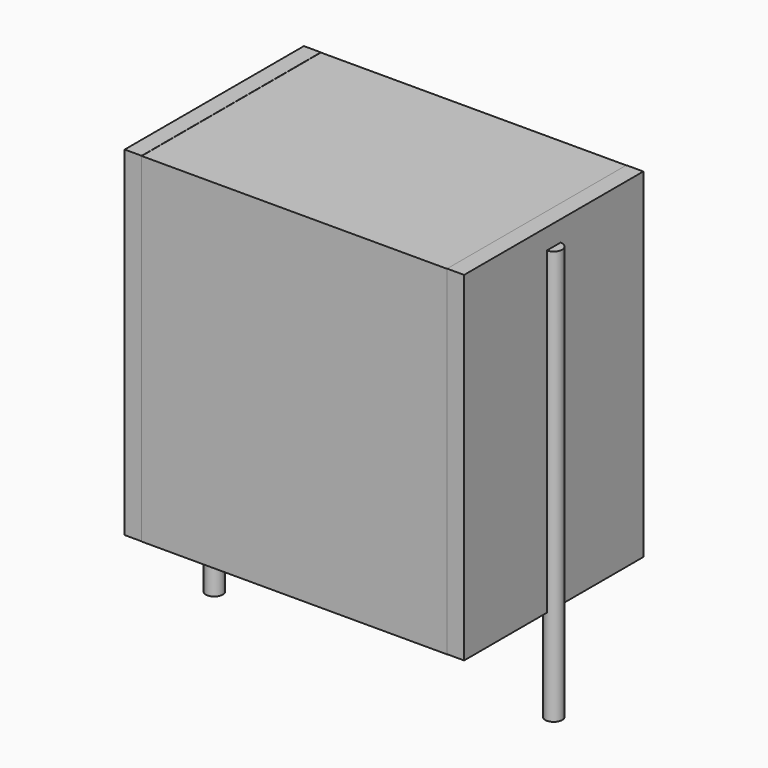
from build123d import *

# Parameters (mm, degrees)
SKETCH_W          = 9
SKETCH_H          = 6.6
PAD_DEPTH         = 10
SKETCH001_R       = 0.25
PAD001_DEPTH      = 9
PAD001_DEPTH_BACK = 3.2
SKETCH002_W       = 0.5
SKETCH002_H       = 6.6
PAD002_DEPTH      = 10


with BuildPart() as pad:
    # Sketch → Pad (new body)
    with BuildSketch(Plane.XY.offset(0.1)):
        with Locations((5, 0)):
            Rectangle(SKETCH_W, SKETCH_H)
    extrude(amount=PAD_DEPTH)


with BuildPart() as pad001:
    # Sketch001 → Pad001 (new body, two sides)
    with BuildSketch(Plane.XY.offset(0.5)) as pad001_sk:
        Circle(SKETCH001_R)
        with Locations((10, 0)):
            Circle(SKETCH001_R)
    extrude(amount=PAD001_DEPTH)
    extrude(pad001_sk.sketch, amount=-PAD001_DEPTH_BACK)


with BuildPart() as pad002:
    # Sketch002 → Pad002 (new body)
    with BuildSketch(Plane.XY.offset(0.105)):
        with Locations((0.25, 0)):
            Rectangle(SKETCH002_W, SKETCH002_H)
        with Locations((9.75, 0)):
            Rectangle(SKETCH002_W, SKETCH002_H)
    extrude(amount=PAD002_DEPTH)


solid = Compound([pad.part, pad001.part, pad002.part])
